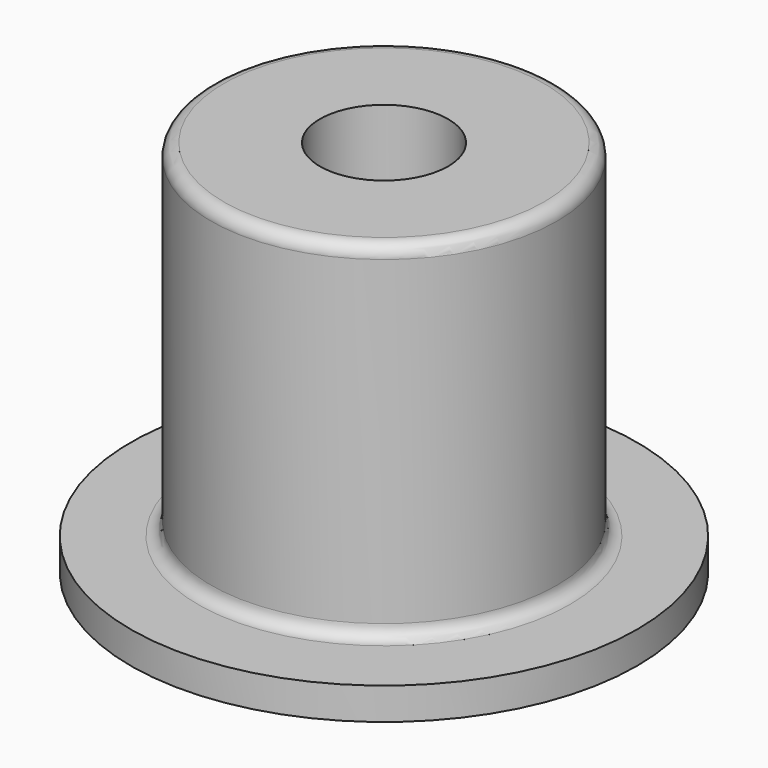
from build123d import *

# Parameters (mm, degrees)
SKETCH_R     = 19.75
PAD_DEPTH    = 2.5
SKETCH001_R  = 13.5
PAD001_DEPTH = 27
SKETCH002_R  = 5
POCKET_DEPTH = 29.501
FILLET_R     = 1


with BuildPart() as part:
    # Sketch → Pad (new body)
    with BuildSketch(Plane.XY):
        Circle(SKETCH_R)
    extrude(amount=PAD_DEPTH)

    # Sketch001 (on Face3 of Pad) → Pad001 (join)
    with BuildSketch(Plane.XY.offset(2.5)):
        Circle(SKETCH001_R)
    extrude(amount=PAD001_DEPTH)

    # Sketch002 (on Face5 of Pad001) → Pocket (cut, through all)
    with BuildSketch(Plane.XY.offset(29.5)):
        Circle(SKETCH002_R)
    extrude(amount=-POCKET_DEPTH, mode=Mode.SUBTRACT)

    # Fillet
    fillet_edges = [part.edges().sort_by_distance(p)[0] for p in [
        (-13.5, 0, 29.5),
        (-13.5, 0, 2.5),
    ]]
    fillet(fillet_edges, radius=FILLET_R)


solid = part.part
